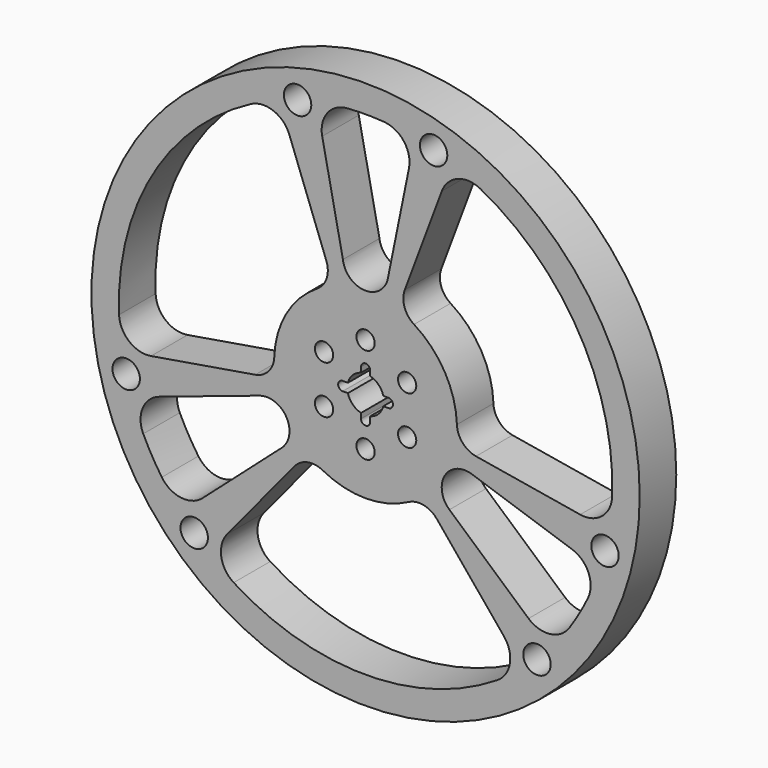
from build123d import *

# Parameters (mm, degrees)
F0_R     = 1524
F0_R_2   = 76.2
F0_R_3   = 381
F0_R_4   = 50.8
F1_DEPTH = 127


with BuildPart() as f1:
    # F0 (on Front) → F1 (new body, symmetric)
    with BuildSketch(Plane.XZ):
        Circle(F0_R)
        with Locations((-952.7934209216, -986.6464701445)):
            Circle(F0_R_2, mode=Mode.SUBTRACT)
        with BuildLine():
            ThreePointArc((-439.9423480835, -253.9985576034), (-424.8166782014, -337.7599742856), (-465.9796756343, -412.2607692902))
            Line((-465.9796756343, -412.2607692902), (-905.9680345543, -801.5265437687))
            ThreePointArc((-905.9680345543, -801.5265437687), (-1025.7629411656, -838.61977583), (-1132.819748018, -773.308462711))
            ThreePointArc((-1132.819748018, -773.308462711), (-1187.843104173, -685.7953921314), (-1236.1192591992, -594.3868580619))
            ThreePointArc((-1236.1192591992, -594.3868580619), (-1239.1511394228, -469.0172635939), (-1147.1293438409, -383.8191611934))
            Line((-1147.1293438409, -383.8191611934), (-590.0196686482, -197.415274506))
            ThreePointArc((-590.0196686482, -197.415274506), (-504.9186012887, -199.0181307826), (-439.9423480835, -253.9985576034))
        make_face(mode=Mode.SUBTRACT)
        with Locations((-1330.8576181602, -331.8200720045)):
            Circle(F0_R_2, mode=Mode.SUBTRACT)
        with BuildLine():
            ThreePointArc((238.2021722072, -448.6911244451), (322.569358917, -436.3121725393), (395.7490373493, -480.081971581))
            Line((395.7490373493, -480.081971581), (769.4240678115, -933.3860315391))
            ThreePointArc((769.4240678115, -933.3860315391), (802.3143911759, -1054.4023698731), (733.3070414661, -1159.1148963482))
            ThreePointArc((733.3070414661, -1159.1148963482), (0, -1371.6), (-733.3070414661, -1159.1148963482))
            ThreePointArc((-733.3070414661, -1159.1148963482), (-802.3143911759, -1054.4023698731), (-769.4240678115, -933.3860315391))
            Line((-769.4240678115, -933.3860315391), (-395.7490373493, -480.081971581))
            ThreePointArc((-395.7490373493, -480.081971581), (-322.569358917, -436.3121725393), (-238.2021722072, -448.6911244451))
            ThreePointArc((-238.2021722072, -448.6911244451), (0, -508), (238.2021722072, -448.6911244451))
        make_face(mode=Mode.SUBTRACT)
        with Locations((952.7934209216, -986.6464701445)):
            Circle(F0_R_2, mode=Mode.SUBTRACT)
        with BuildLine():
            Line((905.9680345543, -801.5265437687), (465.9796756343, -412.2607692902))
            ThreePointArc((465.9796756343, -412.2607692902), (424.8166782014, -337.7599742856), (439.9423480835, -253.9985576034))
            ThreePointArc((439.9423480835, -253.9985576034), (504.9186012886, -199.0181307826), (590.0196686482, -197.415274506))
            Line((590.0196686482, -197.415274506), (1147.1293438409, -383.8191611934))
            ThreePointArc((1147.1293438409, -383.8191611934), (1239.1511394228, -469.0172635939), (1236.1192591992, -594.3868580619))
            ThreePointArc((1236.1192591992, -594.3868580619), (1187.843104173, -685.7953921314), (1132.819748018, -773.308462711))
            ThreePointArc((1132.819748018, -773.308462711), (1025.7629411656, -838.61977583), (905.9680345543, -801.5265437687))
        make_face(mode=Mode.SUBTRACT)
        with Locations((1330.8576181602, -331.8200720045)):
            Circle(F0_R_2, mode=Mode.SUBTRACT)
        with BuildLine():
            ThreePointArc((-217.8909252886, 582.7688604214), (-216.5746758745, 497.5085054428), (-269.4784966319, 430.6336492345))
            ThreePointArc((-269.4784966319, 430.6336492345), (-439.9409051225, 254), (-507.6789282774, 18.0583992396))
            ThreePointArc((-507.6789282774, 18.0583992396), (-539.1423422495, -61.1950815977), (-613.6381003037, -102.6853536567))
            Line((-613.6381003037, -102.6853536567), (-1193.0488232197, -199.6431451721))
            ThreePointArc((-1193.0488232197, -199.6431451721), (-1314.2970839426, -167.6183612316), (-1370.4766821802, -55.4997621651))
            ThreePointArc((-1370.4766821802, -55.4997621651), (-1187.8404438307, 685.8), (-637.1741371511, 1214.6175031448))
            ThreePointArc((-637.1741371511, 1214.6175031448), (-511.986783004, 1222.0238434299), (-423.6283761994, 1133.0321614494))
            Line((-423.6283761994, 1133.0321614494), (-217.8909252886, 582.7688604214))
        make_face(mode=Mode.SUBTRACT)
        with Locations((-378.0641972386, 1318.466542149)):
            Circle(F0_R_2, mode=Mode.SUBTRACT)
        Circle(F0_R_3, mode=Mode.SUBTRACT)
        with BuildLine():
            Line((1193.0488232197, -199.6431451721), (613.6381003037, -102.6853536567))
            ThreePointArc((613.6381003037, -102.6853536567), (539.1423422495, -61.1950815977), (507.6789282774, 18.0583992396))
            ThreePointArc((507.6789282774, 18.0583992396), (439.9409051225, 254), (269.4784966319, 430.6336492345))
            ThreePointArc((269.4784966319, 430.6336492345), (216.5746758745, 497.5085054428), (217.8909252886, 582.7688604214))
            Line((217.8909252886, 582.7688604214), (423.6283761994, 1133.0321614494))
            ThreePointArc((423.6283761994, 1133.0321614494), (511.986783004, 1222.0238434299), (637.1741371511, 1214.6175031448))
            ThreePointArc((637.1741371511, 1214.6175031448), (1187.8404438307, 685.8), (1370.4766821802, -55.4997621651))
            ThreePointArc((1370.4766821802, -55.4997621651), (1314.2970839426, -167.6183612316), (1193.0488232197, -199.6431451721))
        make_face(mode=Mode.SUBTRACT)
        with BuildLine():
            ThreePointArc((126.0722489911, 619.6772054013), (124.450535706, 609.6807550966), (122.0374826547, 599.8453014902))
            ThreePointArc((122.0374826547, 599.8453014902), (0, 508), (-122.0374826546, 599.8453014902))
            ThreePointArc((-122.0374826546, 599.8453014902), (-124.450535706, 609.6807550966), (-126.0722489911, 619.6772054013))
            Line((-126.0722489911, 619.6772054013), (-241.1583314341, 1185.354604825))
            ThreePointArc((-241.1583314341, 1185.354604825), (-213.384559402, 1307.6466532251), (-103.2948996602, 1367.7049110478))
            ThreePointArc((-103.2948996602, 1367.7049110478), (0, 1371.6), (103.2948996602, 1367.7049110478))
            ThreePointArc((103.2948996602, 1367.7049110478), (213.384559402, 1307.6466532251), (241.1583314341, 1185.354604825))
            Line((241.1583314341, 1185.354604825), (126.0722489911, 619.6772054013))
        make_face(mode=Mode.SUBTRACT)
        with Locations((378.0641972386, 1318.466542149)):
            Circle(F0_R_2, mode=Mode.SUBTRACT)
        Circle(F0_R_3)
        with Locations((-230.9689751893, -133.35)):
            Circle(F0_R_4, mode=Mode.SUBTRACT)
        with Locations((0, -266.7)):
            Circle(F0_R_4, mode=Mode.SUBTRACT)
        with Locations((230.9689751893, -133.35)):
            Circle(F0_R_4, mode=Mode.SUBTRACT)
        with Locations((-230.9689751893, 133.35)):
            Circle(F0_R_4, mode=Mode.SUBTRACT)
        with BuildLine():
            ThreePointArc((-98.3737769937, 25.4), (-71.8420489686, 71.8420489686), (-25.4, 98.3737769937))
            Line((-25.4, 98.3737769937), (-25.4, 127))
            ThreePointArc((-25.4, 127), (0, 152.4), (25.4, 127))
            Line((25.4, 127), (25.4, 98.3737769937))
            ThreePointArc((25.4, 98.3737769937), (71.8420489686, 71.8420489686), (98.3737769937, 25.4))
            Line((98.3737769937, 25.4), (127, 25.4))
            ThreePointArc((127, 25.4), (152.4, 0), (127, -25.4))
            Line((127, -25.4), (98.3737769937, -25.4))
            ThreePointArc((98.3737769937, -25.4), (71.8420489686, -71.8420489686), (25.4, -98.3737769937))
            Line((25.4, -98.3737769937), (25.4, -127))
            ThreePointArc((25.4, -127), (0, -152.4), (-25.4, -127))
            Line((-25.4, -127), (-25.4, -98.3737769937))
            ThreePointArc((-25.4, -98.3737769937), (-71.8420489686, -71.8420489686), (-98.3737769937, -25.4))
            Line((-98.3737769937, -25.4), (-127, -25.4))
            ThreePointArc((-127, -25.4), (-152.4, 0), (-127, 25.4))
            Line((-127, 25.4), (-98.3737769937, 25.4))
        make_face(mode=Mode.SUBTRACT)
        with Locations((230.9689751893, 133.35)):
            Circle(F0_R_4, mode=Mode.SUBTRACT)
        with Locations((0, 266.7)):
            Circle(F0_R_4, mode=Mode.SUBTRACT)
    extrude(amount=F1_DEPTH, both=True)


solid = f1.part
